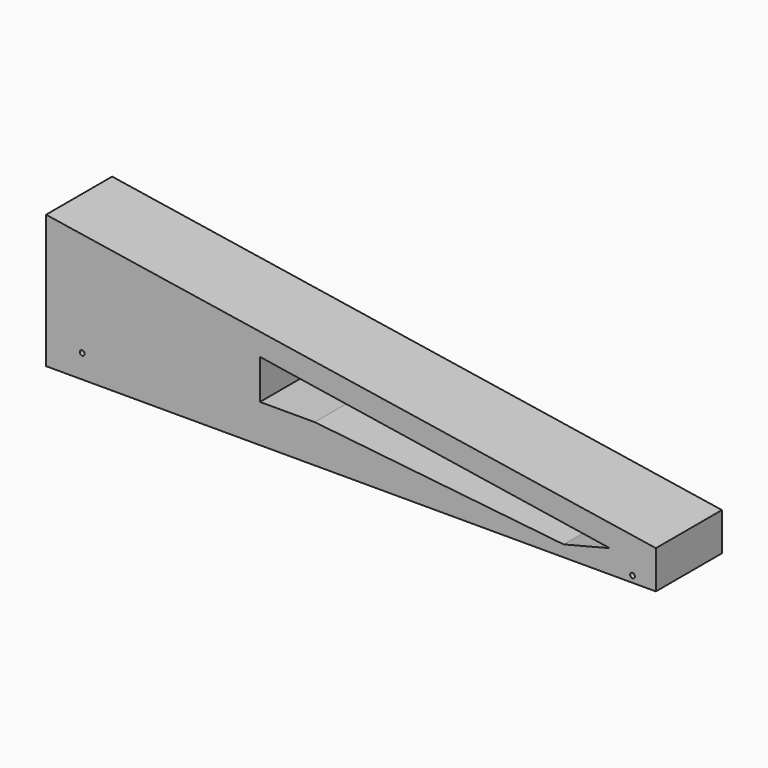
from build123d import *

# Parameters (mm, degrees)
F1_DEPTH  = 41.275
F2_R      = 9.525
F3_DEPTH  = 50.8
F5_DEPTH  = 45.72
F7_DEPTH  = 60.96
F8_R      = 1.190625
F9_DEPTH  = 63.5
F10_R     = 1.190625
F11_DEPTH = 63.5


with BuildPart() as f1:
    # F0 (on Front) → F1 (new body)
    with BuildSketch(Plane.XZ):
        Polygon((-152.966577, 66.675), (-152.966577, 0), (151.833423, 0), (151.833423, 19.05), align=None)
    extrude(amount=F1_DEPTH)

    # F2 (on face) → F3 (cut)
    with BuildSketch(Plane(origin=(-152.966577, 0, 0), x_dir=(0, -1, 0), z_dir=(-1, 0, 0))):
        with Locations((20.6375, 33.3375)):
            Circle(F2_R)
    extrude(amount=-F3_DEPTH, mode=Mode.SUBTRACT)

    # F4 (on face) → F5 (cut)
    with BuildSketch(Plane.XZ.offset(41.275)):
        Polygon((105.732426, 5.715), (128.846437, 11.557001), (2.083721, 31.363675), (-18.727573, 19.05), align=None)
    extrude(amount=-F5_DEPTH, mode=Mode.SUBTRACT)

    # F6 (on face) → F7 (cut)
    with BuildSketch(Plane.XZ.offset(41.275)):
        Polygon((-18.727573, 19.05), (-46.036839, 38.882513), (-46.036839, 19.05), align=None)
        Polygon((-18.727573, 19.05), (2.083721, 31.363675), (-46.036839, 38.882513), align=None)
    extrude(amount=-F7_DEPTH, mode=Mode.SUBTRACT)

    # F8 (on face) → F9 (cut)
    with BuildSketch(Plane(origin=(0, 0, 0), x_dir=(-1, 0, 0), z_dir=(0, 1, 0))):
        with Locations((134.939879, 11.659147)):
            Circle(F8_R)
    extrude(amount=-F9_DEPTH, mode=Mode.SUBTRACT)

    # F10 (on face) → F11 (cut)
    with BuildSketch(Plane(origin=(0, 0, 0), x_dir=(-1, 0, 0), z_dir=(0, 1, 0))):
        with Locations((-140.181614, 3.221456)):
            Circle(F10_R)
    extrude(amount=-F11_DEPTH, mode=Mode.SUBTRACT)


solid = f1.part
